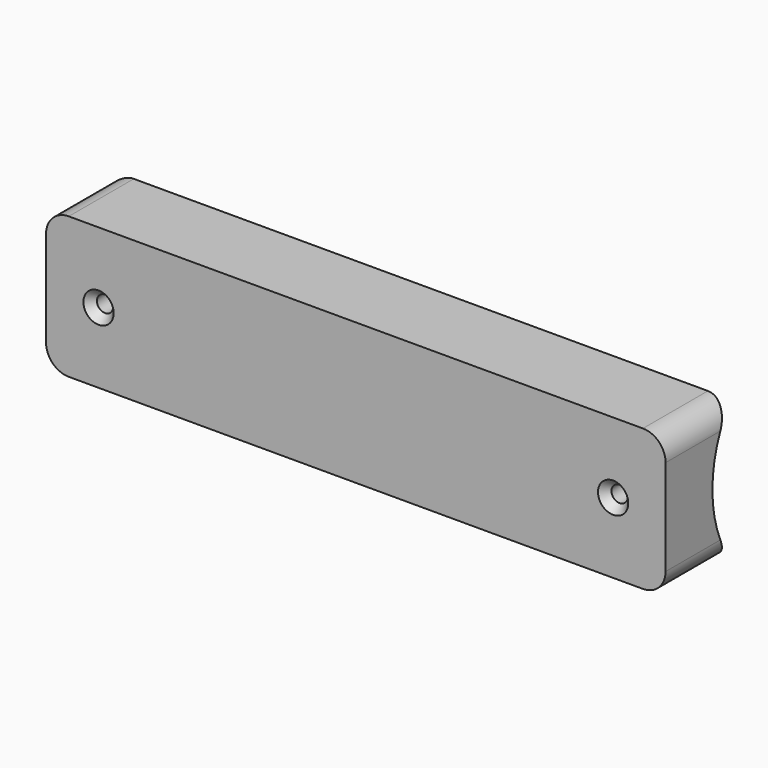
from build123d import *

# Parameters (mm, degrees)
F0_W           = 194.945
F0_H           = 44.45
F1_DEPTH       = 40.64
F2_D           = 5.1054
F2_DEPTH       = 25.4
F2_CSINK_D     = 9.525
F2_CSINK_ANGLE = 82
F2_TIP         = 1.5338169022
F3_R           = 7.14375
F5_DEPTH       = 194.946


with BuildPart() as f1:
    # F0 (on Front) → F1 (new body)
    with BuildSketch(Plane.XZ):
        with Locations((97.4725, 22.225)):
            Rectangle(F0_W, F0_H)
    extrude(amount=-F1_DEPTH)

    # F2
    with Locations(Plane.XZ):
        with Locations((16.51, 22.225), (178.435, 22.225)):
            CounterSinkHole(F2_D / 2, F2_CSINK_D / 2, depth=F2_DEPTH, counter_sink_angle=F2_CSINK_ANGLE)
            with Locations((0, 0, -(F2_DEPTH + F2_TIP / 2))):  # 118° drill point
                Cone(0, F2_D / 2, F2_TIP, mode=Mode.SUBTRACT)

    # F3
    f3_edges = [f1.edges().sort_by_distance(p)[0] for p in [
        (0, 20.32, 44.45),
        (194.945, 20.32, 44.45),
        (0, 20.32, 0),
        (194.945, 20.32, 0),
    ]]
    fillet(f3_edges, radius=F3_R)

    # F4 (on face) → F5 (cut, through all)
    with BuildSketch(Plane(origin=(0, 0, 0), x_dir=(0, -1, 0), z_dir=(-1, 0, 0))):
        with BuildLine():
            Line((-40.64, 7.14375), (-40.64, 22.225))
            Line((-40.64, 22.225), (-40.64, 37.30625))
            Line((-40.64, 37.30625), (-21.5269177657, 37.30625))
            ThreePointArc((-21.5269177657, 37.30625), (-94.615, 22.225), (-21.5269177657, 7.14375))
            Line((-21.5269177657, 7.14375), (-40.64, 7.14375))
        make_face()
        with BuildLine():
            Line((-40.64, 37.30625), (-40.64, 22.225))
            Line((-40.64, 22.225), (-18.415, 22.225))
            ThreePointArc((-18.415, 22.225), (-19.2010888332, 29.9244826732), (-21.5269177657, 37.30625))
            Line((-21.5269177657, 37.30625), (-40.64, 37.30625))
        make_face()
        with BuildLine():
            Line((-18.415, 22.225), (-40.64, 22.225))
            Line((-40.64, 22.225), (-40.64, 7.14375))
            Line((-40.64, 7.14375), (-21.5269177657, 7.14375))
            ThreePointArc((-21.5269177657, 7.14375), (-19.2010888332, 14.5255173268), (-18.415, 22.225))
        make_face()
    extrude(amount=-F5_DEPTH, mode=Mode.SUBTRACT)


solid = f1.part
